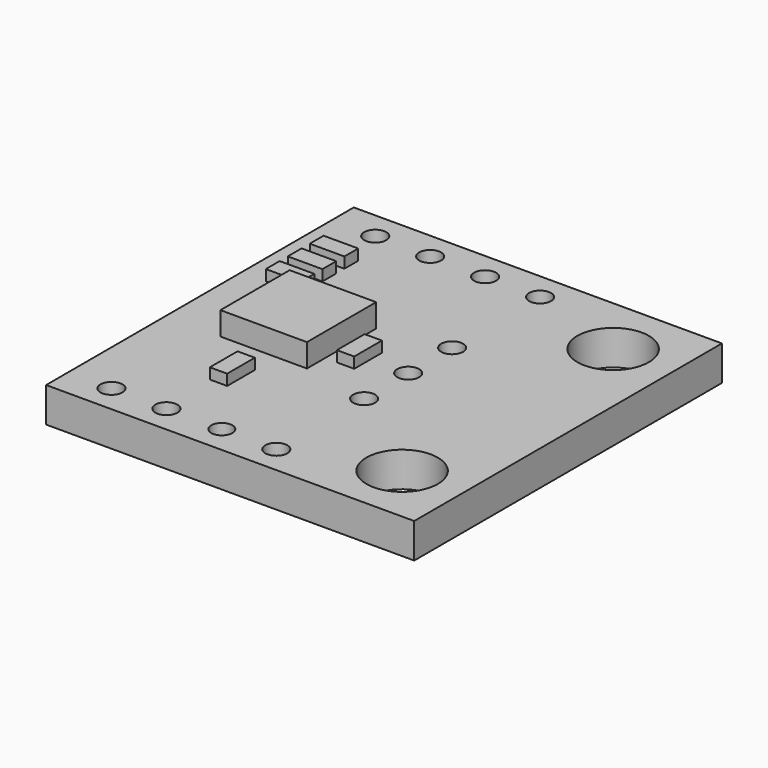
from build123d import *

# Parameters (mm, degrees)
F0_W     = 17.018
F0_H     = 17.78
F1_DEPTH = 0.26
F2_DEPTH = 1.35
F3_R     = 0.508
F3_R_2   = 0.509027
F3_R_3   = 0.487745
F3_R_4   = 1.651
F4_DEPTH = 1.61
F5_W     = 1.6
F5_H     = 0.8
F5_W_2   = 0.8
F5_H_2   = 1.6
F6_DEPTH = 0.5
F7_W     = 4
F7_H     = 4
F8_DEPTH = 1.075


with BuildPart() as f1:
    # F0 (on Top) → F1 (new body)
    with BuildSketch(Plane.XY):
        Rectangle(F0_W, F0_H)
    extrude(amount=F1_DEPTH)

    # F0 (on Top) → F2 (join)
    with BuildSketch(Plane.XY):
        Rectangle(F0_W, F0_H)
    extrude(amount=-F2_DEPTH)

    # F3 (on face) → F4 (cut, through all)
    with BuildSketch(Plane.XY.offset(0.26)):
        with Locations((-6.502, 7.62)):
            Circle(F3_R)
        with Locations((-3.962, 7.62)):
            Circle(F3_R)
        with Locations((-1.422, 7.62)):
            Circle(F3_R)
        with Locations((1.118, 7.62)):
            Circle(F3_R)
        with Locations((1.118, 2.54)):
            Circle(F3_R)
        with Locations((1.118, 0)):
            Circle(F3_R)
        with Locations((1.123042, -2.550522)):
            Circle(F3_R_2)
        with Locations((1.118, -7.62)):
            Circle(F3_R)
        with Locations((-1.401745, -7.62)):
            Circle(F3_R_3)
        with Locations((-3.962, -7.62)):
            Circle(F3_R)
        with Locations((-6.502, -7.62)):
            Circle(F3_R)
        with Locations((5.715, -6.096)):
            Circle(F3_R_4)
        with Locations((5.715, 6.096)):
            Circle(F3_R_4)
    extrude(amount=-F4_DEPTH, mode=Mode.SUBTRACT)

    # F5 (on face) → F6 (join)
    with BuildSketch(Plane.XY.offset(0.26)):
        with Locations((-6.579, 5.334)):
            Rectangle(F5_W, F5_H)
        with Locations((-6.579, 4.064)):
            Rectangle(F5_W, F5_H)
        with Locations((-6.579, 2.794)):
            Rectangle(F5_W, F5_H)
        with Locations((-1.016, -0.152)):
            Rectangle(F5_W_2, F5_H_2)
        with Locations((-3.759, -4.064)):
            Rectangle(F5_W_2, F5_H_2)
    extrude(amount=F6_DEPTH)

    # F7 (on face) → F8 (join)
    with BuildSketch(Plane.XY.offset(0.26)):
        with Locations((-3.962, 0)):
            Rectangle(F7_W, F7_H)
    extrude(amount=F8_DEPTH)


solid = f1.part
